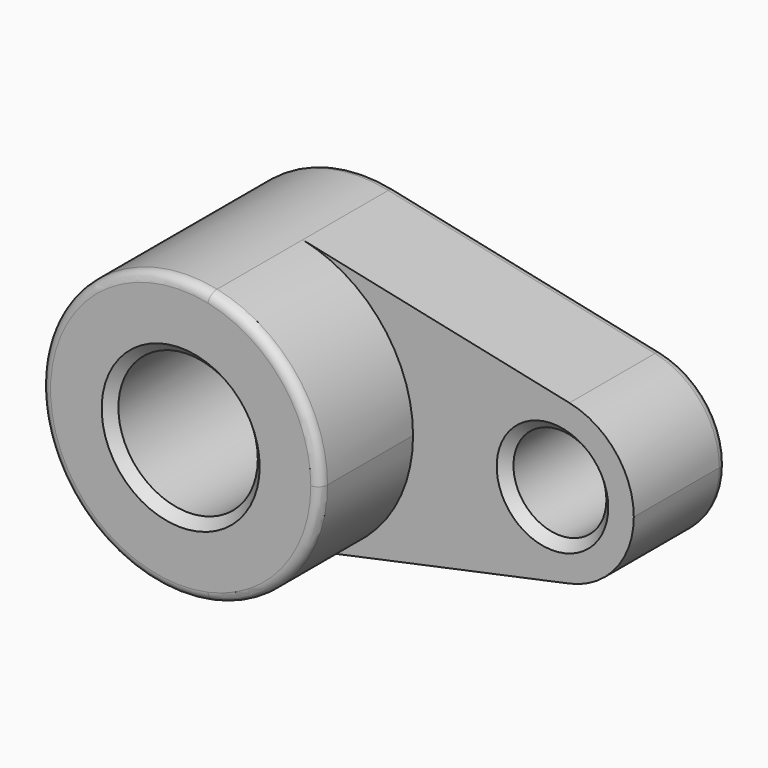
from build123d import *

# Parameters (mm, degrees)
F0_R     = 381
F0_R_2   = 254
F1_DEPTH = 635
F2_DEPTH = 1270
F3_R     = 50.8
F4_SIZE  = 50.8


with BuildPart() as f1:
    # F0 (on Front) → F1 (new body)
    with BuildSketch(Plane.XZ):
        with BuildLine():
            ThreePointArc((158.75, 745.280107), (592.28857, 479.414487), (762, 0))
            ThreePointArc((762, 0), (592.28857, -479.414487), (158.75, -745.280107))
            Line((158.75, -745.280107), (1616.604167, -434.746729))
            ThreePointArc((1616.604167, -434.746729), (1079.5, 0), (1616.604167, 434.746729))
            Line((1616.604167, 434.746729), (158.75, 745.280107))
        make_face()
        with BuildLine():
            ThreePointArc((158.75, -745.280107), (592.28857, -479.414487), (762, 0))
            ThreePointArc((762, 0), (592.28857, 479.414487), (158.75, 745.280107))
            ThreePointArc((158.75, 745.280107), (-762, 0), (158.75, -745.280107))
        make_face()
        Circle(F0_R, mode=Mode.SUBTRACT)
        with BuildLine():
            ThreePointArc((1968.5, 0), (1869.501666, 279.658451), (1616.604167, 434.746729))
            ThreePointArc((1616.604167, 434.746729), (1079.5, 0), (1616.604167, -434.746729))
            ThreePointArc((1616.604167, -434.746729), (1869.501666, -279.658451), (1968.5, 0))
        make_face()
        with Locations((1524, 0)):
            Circle(F0_R_2, mode=Mode.SUBTRACT)
    extrude(amount=F1_DEPTH)

    # F0 (on Front) → F2 (join)
    with BuildSketch(Plane.XZ):
        with BuildLine():
            ThreePointArc((158.75, -745.280107), (592.28857, -479.414487), (762, 0))
            ThreePointArc((762, 0), (592.28857, 479.414487), (158.75, 745.280107))
            ThreePointArc((158.75, 745.280107), (-762, 0), (158.75, -745.280107))
        make_face()
        Circle(F0_R, mode=Mode.SUBTRACT)
    extrude(amount=F2_DEPTH)

    # F3
    f3_edges = [f1.edges().sort_by_distance(p)[0] for p in [
        (-158.75, -1270, 745.280107),
        (-762, 0, 0),
        (887.677083, 0, 590.013418),
        (1968.5, 0, 0),
        (887.677083, 0, -590.013418),
    ]]
    fillet(f3_edges, radius=F3_R)

    # F4
    f4_edges = [f1.edges().sort_by_distance(p)[0] for p in [
        (-381, -1270, 0),
        (1270, -635, 0),
    ]]
    chamfer(f4_edges, length=F4_SIZE)


solid = f1.part
